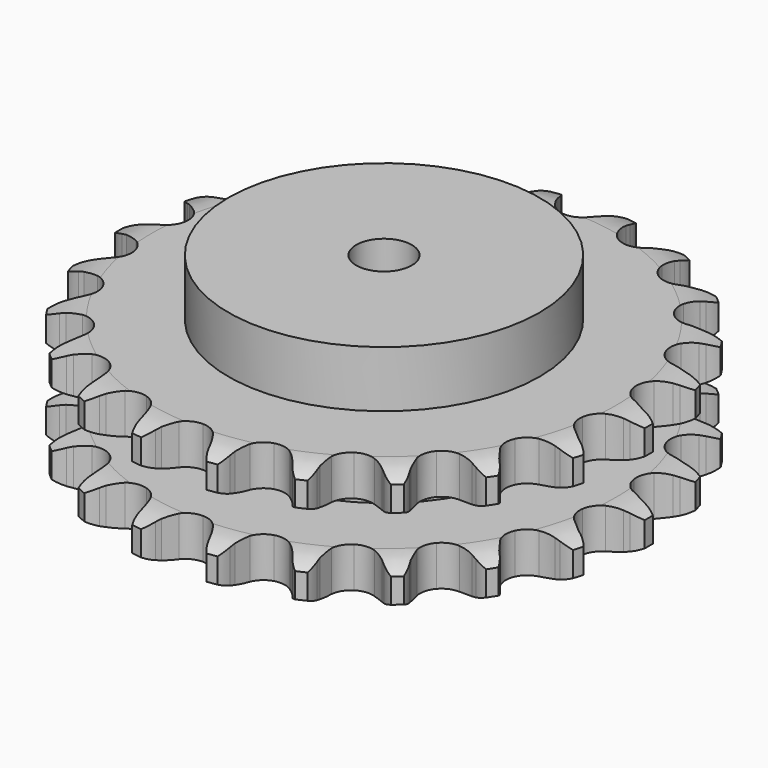
from build123d import *

# Parameters (mm, degrees)
PAD_DEPTH         = 54.6
SKETCH001_R       = 70
PAD001_DEPTH      = 80
SKETCH002_R       = 12.5
POCKET_DEPTH      = 0.001
POCKET_DEPTH_BACK = 80.001


with BuildPart() as part:
    # Sprocket → Pad (new body)
    with BuildSketch(Plane.XY):
        with BuildLine():
            ThreePointArc((-17.336918, 120.580914), (-14.110128, 117.533789), (-11.864593, 113.705641))
            Line((-11.864593, 113.705641), (-10.942809, 111.455048))
            ThreePointArc((-10.942809, 111.455048), (-9.46755, 108.448501), (-7.601433, 105.667616))
            ThreePointArc((-7.601433, 105.667616), (-4.233611, 102.920442), (0, 101.937728))
            ThreePointArc((0, 101.937728), (4.233611, 102.920442), (7.601433, 105.667616))
            ThreePointArc((7.601433, 105.667616), (9.46755, 108.448501), (10.942809, 111.455048))
            Line((10.942809, 111.455048), (11.864593, 113.705641))
            ThreePointArc((11.864593, 113.705641), (14.110128, 117.533789), (17.336918, 120.580914))
            ThreePointArc((17.336918, 120.580914), (19.574526, 116.748127), (20.650587, 112.442406))
            Line((20.650587, 112.442406), (20.900967, 110.023281))
            ThreePointArc((20.900967, 110.023281), (21.469426, 106.722892), (22.476486, 103.528906))
            ThreePointArc((22.476486, 103.528906), (24.933919, 99.944187), (28.719177, 97.808533))
            ThreePointArc((28.719177, 97.808533), (33.058159, 97.558695), (37.063529, 99.245763))
            Line((37.063529, 99.245763), (41.900064, 103.85739))
            ThreePointArc((41.900064, 103.85739), (42.636066, 104.825843), (43.418575, 105.757121))
            ThreePointArc((43.418575, 105.757121), (46.651664, 108.797562), (50.60622, 110.812165))
            ThreePointArc((50.60622, 110.812165), (51.673368, 106.504226), (51.49278, 102.069755))
            Line((51.49278, 102.069755), (51.051471, 99.678082))
            ThreePointArc((51.051471, 99.678082), (50.667076, 96.351229), (50.733493, 93.0029))
            ThreePointArc((50.733493, 93.0029), (52.081451, 88.871048), (55.111696, 85.755474))
            ThreePointArc((55.111696, 85.755474), (59.204532, 84.293322), (63.522959, 84.78361))
            Line((63.522959, 84.78361), (69.462825, 87.845824))
            ThreePointArc((69.462825, 87.845824), (70.441858, 88.567692), (71.455042, 89.240789))
            ThreePointArc((71.455042, 89.240789), (75.413759, 91.247204), (79.775707, 92.066074))
            ThreePointArc((79.775707, 92.066074), (79.585942, 87.631987), (78.163333, 83.428021))
            Line((78.163333, 83.428021), (77.066089, 81.257558))
            ThreePointArc((77.066089, 81.257558), (75.759982, 78.173762), (74.880375, 74.942352))
            ThreePointArc((74.880375, 74.942352), (75.009654, 70.598106), (77.039394, 66.755015))
            ThreePointArc((77.039394, 66.755015), (80.554506, 64.199006), (84.836136, 63.452792))
            Line((84.836136, 63.452792), (91.398121, 64.717511))
            ThreePointArc((91.398121, 64.717511), (92.54087, 65.134313), (93.702646, 65.494698))
            ThreePointArc((93.702646, 65.494698), (98.06628, 66.30454), (102.482241, 65.861337))
            ThreePointArc((102.482241, 65.861337), (101.050936, 61.660324), (98.501559, 58.027444))
            Line((98.501559, 58.027444), (96.837271, 56.25403))
            ThreePointArc((96.837271, 56.25403), (94.715264, 53.663122), (92.960894, 50.810421))
            ThreePointArc((92.960894, 50.810421), (91.861021, 46.605725), (92.725819, 42.346462))
            ThreePointArc((92.725819, 42.346462), (95.378432, 38.903669), (99.276393, 36.981407))
            Line((99.276393, 36.981407), (105.928885, 36.346171))
            ThreePointArc((105.928885, 36.346171), (107.142771, 36.42414), (108.359019, 36.442617))
            ThreePointArc((108.359019, 36.442617), (112.774054, 35.990276), (116.886273, 34.320906))
            ThreePointArc((116.886273, 34.320906), (114.329383, 30.69331), (110.859774, 27.925829))
            Line((110.859774, 27.925829), (108.763272, 26.693134))
            ThreePointArc((108.763272, 26.693134), (105.997279, 24.805015), (103.510275, 22.562131))
            ThreePointArc((103.510275, 22.562131), (101.270354, 18.837625), (100.900149, 14.507251))
            ThreePointArc((100.900149, 14.507251), (102.475366, 10.456587), (105.673868, 7.514008))
            Line((105.673868, 7.514008), (111.87792, 5.03028))
            ThreePointArc((111.87792, 5.03028), (113.064602, 4.7631), (114.236789, 4.438171))
            ThreePointArc((114.236789, 4.438171), (118.345545, 2.760295), (121.820875, 0))
            ThreePointArc((121.820875, 0), (118.345545, -2.760295), (114.236789, -4.438171))
            Line((114.236789, -4.438171), (111.87792, -5.03028))
            ThreePointArc((111.87792, -5.03028), (108.692024, -6.062647), (105.673868, -7.514008))
            ThreePointArc((105.673868, -7.514008), (102.475366, -10.456587), (100.900149, -14.507251))
            ThreePointArc((100.900149, -14.507251), (101.270354, -18.837625), (103.510275, -22.562131))
            Line((103.510275, -22.562131), (108.763272, -26.693134))
            ThreePointArc((108.763272, -26.693134), (109.826612, -27.283819), (110.859774, -27.925829))
            ThreePointArc((110.859774, -27.925829), (114.329383, -30.69331), (116.886273, -34.320906))
            ThreePointArc((116.886273, -34.320906), (112.774054, -35.990276), (108.359019, -36.442617))
            Line((108.359019, -36.442617), (105.928885, -36.346171))
            ThreePointArc((105.928885, -36.346171), (102.581189, -36.439149), (99.276393, -36.981407))
            ThreePointArc((99.276393, -36.981407), (95.378432, -38.903669), (92.725819, -42.346462))
            ThreePointArc((92.725819, -42.346462), (91.861021, -46.605725), (92.960894, -50.810421))
            Line((92.960894, -50.810421), (96.837271, -56.25403))
            ThreePointArc((96.837271, -56.25403), (97.691122, -57.120365), (98.501559, -58.027444))
            ThreePointArc((98.501559, -58.027444), (101.050936, -61.660324), (102.482241, -65.861337))
            ThreePointArc((102.482241, -65.861337), (98.06628, -66.30454), (93.702646, -65.494698))
            Line((93.702646, -65.494698), (91.398121, -64.717511))
            ThreePointArc((91.398121, -64.717511), (88.159835, -63.863568), (84.836136, -63.452792))
            ThreePointArc((84.836136, -63.452792), (80.554506, -64.199006), (77.039394, -66.755015))
            ThreePointArc((77.039394, -66.755015), (75.009654, -70.598106), (74.880375, -74.942352))
            Line((74.880375, -74.942352), (77.066089, -81.257558))
            ThreePointArc((77.066089, -81.257558), (77.641279, -82.329358), (78.163333, -83.428021))
            ThreePointArc((78.163333, -83.428021), (79.585942, -87.631987), (79.775707, -92.066074))
            ThreePointArc((79.775707, -92.066074), (75.413759, -91.247204), (71.455042, -89.240789))
            Line((71.455042, -89.240789), (69.462825, -87.845824))
            ThreePointArc((69.462825, -87.845824), (66.596296, -86.114141), (63.522959, -84.78361))
            ThreePointArc((63.522959, -84.78361), (59.204532, -84.293322), (55.111696, -85.755474))
            ThreePointArc((55.111696, -85.755474), (52.081451, -88.871048), (50.733493, -93.0029))
            Line((50.733493, -93.0029), (51.051471, -99.678082))
            ThreePointArc((51.051471, -99.678082), (51.301401, -100.868517), (51.49278, -102.069755))
            ThreePointArc((51.49278, -102.069755), (51.673368, -106.504226), (50.60622, -110.812165))
            ThreePointArc((50.60622, -110.812165), (46.651664, -108.797562), (43.418575, -105.757121))
            Line((43.418575, -105.757121), (41.900064, -103.85739))
            ThreePointArc((41.900064, -103.85739), (39.637521, -101.388258), (37.063529, -99.245763))
            ThreePointArc((37.063529, -99.245763), (33.058159, -97.558695), (28.719177, -97.808533))
            ThreePointArc((28.719177, -97.808533), (24.933919, -99.944187), (22.476486, -103.528906))
            Line((22.476486, -103.528906), (20.900967, -110.023281))
            ThreePointArc((20.900967, -110.023281), (20.805389, -111.235908), (20.650587, -112.442406))
            ThreePointArc((20.650587, -112.442406), (19.574526, -116.748127), (17.336918, -120.580914))
            ThreePointArc((17.336918, -120.580914), (14.110128, -117.533789), (11.864593, -113.705641))
            Line((11.864593, -113.705641), (10.942809, -111.455048))
            ThreePointArc((10.942809, -111.455048), (9.46755, -108.448501), (7.601433, -105.667616))
            ThreePointArc((7.601433, -105.667616), (4.233611, -102.920442), (0, -101.937728))
            ThreePointArc((0, -101.937728), (-4.233611, -102.920442), (-7.601433, -105.667616))
            Line((-7.601433, -105.667616), (-10.942809, -111.455048))
            ThreePointArc((-10.942809, -111.455048), (-11.376153, -112.591628), (-11.864593, -113.705641))
            ThreePointArc((-11.864593, -113.705641), (-14.110128, -117.533789), (-17.336918, -120.580914))
            ThreePointArc((-17.336918, -120.580914), (-19.574526, -116.748127), (-20.650587, -112.442406))
            Line((-20.650587, -112.442406), (-20.900967, -110.023281))
            ThreePointArc((-20.900967, -110.023281), (-21.469426, -106.722892), (-22.476486, -103.528906))
            ThreePointArc((-22.476486, -103.528906), (-24.933919, -99.944187), (-28.719177, -97.808533))
            ThreePointArc((-28.719177, -97.808533), (-33.058159, -97.558695), (-37.063529, -99.245763))
            Line((-37.063529, -99.245763), (-41.900064, -103.85739))
            ThreePointArc((-41.900064, -103.85739), (-42.636066, -104.825843), (-43.418575, -105.757121))
            ThreePointArc((-43.418575, -105.757121), (-46.651664, -108.797562), (-50.60622, -110.812165))
            ThreePointArc((-50.60622, -110.812165), (-51.673368, -106.504226), (-51.49278, -102.069755))
            Line((-51.49278, -102.069755), (-51.051471, -99.678082))
            ThreePointArc((-51.051471, -99.678082), (-50.667076, -96.351229), (-50.733493, -93.0029))
            ThreePointArc((-50.733493, -93.0029), (-52.081451, -88.871048), (-55.111696, -85.755474))
            ThreePointArc((-55.111696, -85.755474), (-59.204532, -84.293322), (-63.522959, -84.78361))
            Line((-63.522959, -84.78361), (-69.462825, -87.845824))
            ThreePointArc((-69.462825, -87.845824), (-70.441858, -88.567692), (-71.455042, -89.240789))
            ThreePointArc((-71.455042, -89.240789), (-75.413759, -91.247204), (-79.775707, -92.066074))
            ThreePointArc((-79.775707, -92.066074), (-79.585942, -87.631987), (-78.163333, -83.428021))
            Line((-78.163333, -83.428021), (-77.066089, -81.257558))
            ThreePointArc((-77.066089, -81.257558), (-75.759982, -78.173762), (-74.880375, -74.942352))
            ThreePointArc((-74.880375, -74.942352), (-75.009654, -70.598106), (-77.039394, -66.755015))
            ThreePointArc((-77.039394, -66.755015), (-80.554506, -64.199006), (-84.836136, -63.452792))
            Line((-84.836136, -63.452792), (-91.398121, -64.717511))
            ThreePointArc((-91.398121, -64.717511), (-92.54087, -65.134313), (-93.702646, -65.494698))
            ThreePointArc((-93.702646, -65.494698), (-98.06628, -66.30454), (-102.482241, -65.861337))
            ThreePointArc((-102.482241, -65.861337), (-101.050936, -61.660324), (-98.501559, -58.027444))
            Line((-98.501559, -58.027444), (-96.837271, -56.25403))
            ThreePointArc((-96.837271, -56.25403), (-94.715264, -53.663122), (-92.960894, -50.810421))
            ThreePointArc((-92.960894, -50.810421), (-91.861021, -46.605725), (-92.725819, -42.346462))
            ThreePointArc((-92.725819, -42.346462), (-95.378432, -38.903669), (-99.276393, -36.981407))
            Line((-99.276393, -36.981407), (-105.928885, -36.346171))
            ThreePointArc((-105.928885, -36.346171), (-107.142771, -36.42414), (-108.359019, -36.442617))
            ThreePointArc((-108.359019, -36.442617), (-112.774054, -35.990276), (-116.886273, -34.320906))
            ThreePointArc((-116.886273, -34.320906), (-114.329383, -30.69331), (-110.859774, -27.925829))
            Line((-110.859774, -27.925829), (-108.763272, -26.693134))
            ThreePointArc((-108.763272, -26.693134), (-105.997279, -24.805015), (-103.510275, -22.562131))
            ThreePointArc((-103.510275, -22.562131), (-101.270354, -18.837625), (-100.900149, -14.507251))
            ThreePointArc((-100.900149, -14.507251), (-102.475366, -10.456587), (-105.673868, -7.514008))
            Line((-105.673868, -7.514008), (-111.87792, -5.03028))
            ThreePointArc((-111.87792, -5.03028), (-113.064602, -4.7631), (-114.236789, -4.438171))
            ThreePointArc((-114.236789, -4.438171), (-118.345545, -2.760295), (-121.820875, 0))
            ThreePointArc((-121.820875, 0), (-118.345545, 2.760295), (-114.236789, 4.438171))
            Line((-114.236789, 4.438171), (-111.87792, 5.03028))
            ThreePointArc((-111.87792, 5.03028), (-108.692024, 6.062647), (-105.673868, 7.514008))
            ThreePointArc((-105.673868, 7.514008), (-102.475366, 10.456587), (-100.900149, 14.507251))
            ThreePointArc((-100.900149, 14.507251), (-101.270354, 18.837625), (-103.510275, 22.562131))
            Line((-103.510275, 22.562131), (-108.763272, 26.693134))
            ThreePointArc((-108.763272, 26.693134), (-109.826612, 27.283819), (-110.859774, 27.925829))
            ThreePointArc((-110.859774, 27.925829), (-114.329383, 30.69331), (-116.886273, 34.320906))
            ThreePointArc((-116.886273, 34.320906), (-112.774054, 35.990276), (-108.359019, 36.442617))
            Line((-108.359019, 36.442617), (-105.928885, 36.346171))
            ThreePointArc((-105.928885, 36.346171), (-102.581189, 36.439149), (-99.276393, 36.981407))
            ThreePointArc((-99.276393, 36.981407), (-95.378432, 38.903669), (-92.725819, 42.346462))
            ThreePointArc((-92.725819, 42.346462), (-91.861021, 46.605725), (-92.960894, 50.810421))
            Line((-92.960894, 50.810421), (-96.837271, 56.25403))
            ThreePointArc((-96.837271, 56.25403), (-97.691122, 57.120365), (-98.501559, 58.027444))
            ThreePointArc((-98.501559, 58.027444), (-101.050936, 61.660324), (-102.482241, 65.861337))
            ThreePointArc((-102.482241, 65.861337), (-98.06628, 66.30454), (-93.702646, 65.494698))
            Line((-93.702646, 65.494698), (-91.398121, 64.717511))
            ThreePointArc((-91.398121, 64.717511), (-88.159835, 63.863568), (-84.836136, 63.452792))
            ThreePointArc((-84.836136, 63.452792), (-80.554506, 64.199006), (-77.039394, 66.755015))
            ThreePointArc((-77.039394, 66.755015), (-75.009654, 70.598106), (-74.880375, 74.942352))
            Line((-74.880375, 74.942352), (-77.066089, 81.257558))
            ThreePointArc((-77.066089, 81.257558), (-77.641279, 82.329358), (-78.163333, 83.428021))
            ThreePointArc((-78.163333, 83.428021), (-79.585942, 87.631987), (-79.775707, 92.066074))
            ThreePointArc((-79.775707, 92.066074), (-75.413759, 91.247204), (-71.455042, 89.240789))
            Line((-71.455042, 89.240789), (-69.462825, 87.845824))
            ThreePointArc((-69.462825, 87.845824), (-66.596296, 86.114141), (-63.522959, 84.78361))
            ThreePointArc((-63.522959, 84.78361), (-59.204532, 84.293322), (-55.111696, 85.755474))
            ThreePointArc((-55.111696, 85.755474), (-52.081451, 88.871048), (-50.733493, 93.0029))
            Line((-50.733493, 93.0029), (-51.051471, 99.678082))
            ThreePointArc((-51.051471, 99.678082), (-51.301401, 100.868517), (-51.49278, 102.069755))
            ThreePointArc((-51.49278, 102.069755), (-51.673368, 106.504226), (-50.60622, 110.812165))
            ThreePointArc((-50.60622, 110.812165), (-46.651664, 108.797562), (-43.418575, 105.757121))
            Line((-43.418575, 105.757121), (-41.900064, 103.85739))
            ThreePointArc((-41.900064, 103.85739), (-39.637521, 101.388258), (-37.063529, 99.245763))
            ThreePointArc((-37.063529, 99.245763), (-33.058159, 97.558695), (-28.719177, 97.808533))
            ThreePointArc((-28.719177, 97.808533), (-24.933919, 99.944187), (-22.476486, 103.528906))
            Line((-22.476486, 103.528906), (-20.900967, 110.023281))
            ThreePointArc((-20.900967, 110.023281), (-20.805389, 111.235908), (-20.650587, 112.442406))
            ThreePointArc((-20.650587, 112.442406), (-19.574526, 116.748127), (-17.336918, 120.580914))
        make_face()
    extrude(amount=PAD_DEPTH)

    # Sketch → Groove (revolve, cut)
    with BuildSketch(Plane.XZ):
        with BuildLine():
            ThreePointArc((104.598368, 0), (112.081683, 0.887302), (119.15, 3.5))
            Line((119.15, 3.5), (119.15, 14.7))
            ThreePointArc((119.15, 14.7), (112.081683, 17.312698), (104.598368, 18.2))
            Line((70, 18.2), (104.598368, 18.2))
            Line((70, 36.4), (70, 18.2))
            Line((104.598368, 36.4), (70, 36.4))
            ThreePointArc((104.598368, 36.4), (112.081683, 37.287302), (119.15, 39.9))
            Line((119.15, 39.9), (119.15, 51.1))
            ThreePointArc((119.15, 51.1), (112.081683, 53.712698), (104.598368, 54.6))
            Line((104.598368, 54.6), (129.15, 54.6))
            Line((129.15, 54.6), (129.15, 0))
            Line((104.598368, 0), (129.15, 0))
        make_face()
    revolve(axis=Axis((0, 0, 0), (0, 0, 1)), mode=Mode.SUBTRACT)

    # Sketch001 → Pad001 (join)
    with BuildSketch(Plane.XY):
        Circle(SKETCH001_R)
    extrude(amount=PAD001_DEPTH)

    # Sketch002 → Pocket (cut, two sides)
    with BuildSketch(Plane.XY) as pocket_sk:
        Circle(SKETCH002_R)
    extrude(amount=-POCKET_DEPTH, mode=Mode.SUBTRACT)
    extrude(pocket_sk.sketch, amount=POCKET_DEPTH_BACK, mode=Mode.SUBTRACT)


solid = part.part
